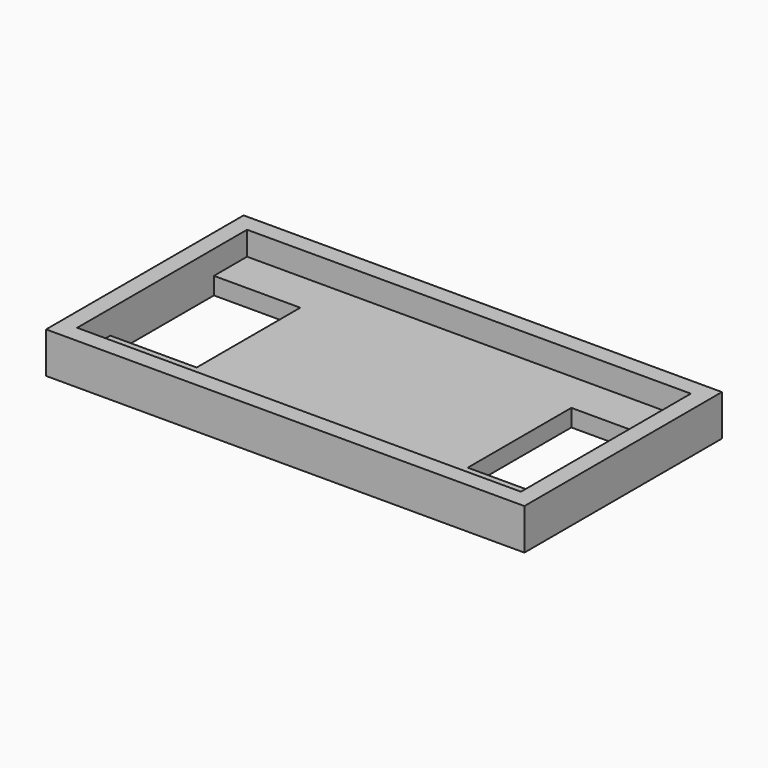
from build123d import *

# Parameters (mm, degrees)
SKETCH015_W     = 55.4
SKETCH015_H     = 28.6
PAD011_DEPTH    = 2
SKETCH016_W     = 55.4
SKETCH016_H     = 28.6
SKETCH016_W_2   = 51.4
SKETCH016_H_2   = 24.6
PAD012_DEPTH    = 2.75
SKETCH019_W     = 10
SKETCH019_H     = 15
POCKET006_DEPTH = 2


with BuildPart() as part:
    # Sketch015 → Pad011 (new body)
    with BuildSketch(Plane.XY):
        Rectangle(SKETCH015_W, SKETCH015_H)
    extrude(amount=PAD011_DEPTH)

    # Sketch016 (on Face6 of Pad011) → Pad012 (join)
    with BuildSketch(Plane.XY.offset(2)):
        Rectangle(SKETCH016_W, SKETCH016_H)
        Rectangle(SKETCH016_W_2, SKETCH016_H_2, mode=Mode.SUBTRACT)
    extrude(amount=PAD012_DEPTH)

    # Sketch019 (on Face15 of Pad012) → Pocket006 (cut)
    with BuildSketch(Plane.XY.offset(2)):
        with Locations((-20.7, 0)):
            Rectangle(SKETCH019_W, SKETCH019_H)
        with Locations((20.7, 0)):
            Rectangle(SKETCH019_W, SKETCH019_H)
    extrude(amount=-POCKET006_DEPTH, mode=Mode.SUBTRACT)


solid = part.part
